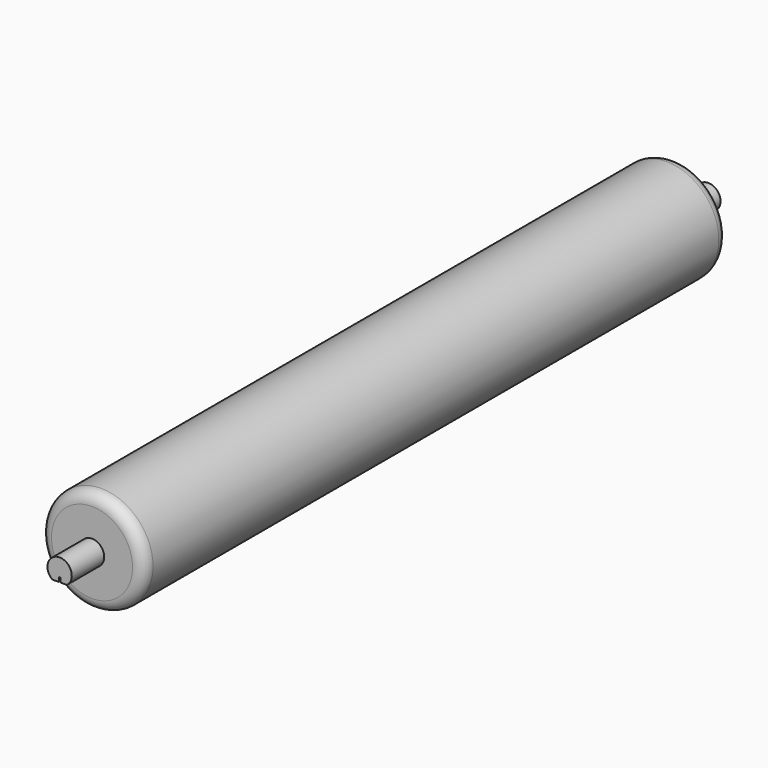
from build123d import *

# Parameters (mm, degrees)
F2_R     = 7
F4_DEPTH = 25
F6_DEPTH = 25


with BuildPart() as f1:
    # F0 (on Right) → F1 (revolve)
    with BuildSketch(Plane.YZ):
        Polygon((-237.755094, 7.5), (-237.755094, 0), (262.244906, 0), (262.244906, 7.5), (237.244906, 7.5), (237.244906, 32), (-212.755094, 32), (-212.755094, 7.5), align=None)
    revolve(axis=Axis((0, 12.244906, 0), (0, -1, 0)))

    # F2
    f2_edges = [f1.edges().sort_by_distance(p)[0] for p in [
        (0, -212.755094, -32),
        (0, 237.244906, -32),
    ]]
    fillet(f2_edges, radius=F2_R)

    # F3 (on face) → F4 (cut, through all)
    with BuildSketch(Plane.XZ.offset(237.755094)):
        Polygon((-0.5, -6), (-7.974903, -6), (-7.77278, -10.850932), (8.599116, -10.850932), (8.599116, -6), (0.5, -6), (0.5, -3.27135), (-0.5, -3.27135), align=None)
    extrude(amount=-F4_DEPTH, mode=Mode.SUBTRACT)

    # F5 (on face) → F6 (cut, through all)
    with BuildSketch(Plane(origin=(0, 262.244906, 0), x_dir=(-1, 0, 0), z_dir=(0, 1, 0))):
        Polygon((9.790156, -10.28766), (8.146554, -6), (0.5, -6), (0.5, -3.27135), (-0.5, -3.27135), (-0.5, -6), (-9.718692, -6), (-10.433301, -10.787886), align=None)
    extrude(amount=-F6_DEPTH, mode=Mode.SUBTRACT)


solid = f1.part
